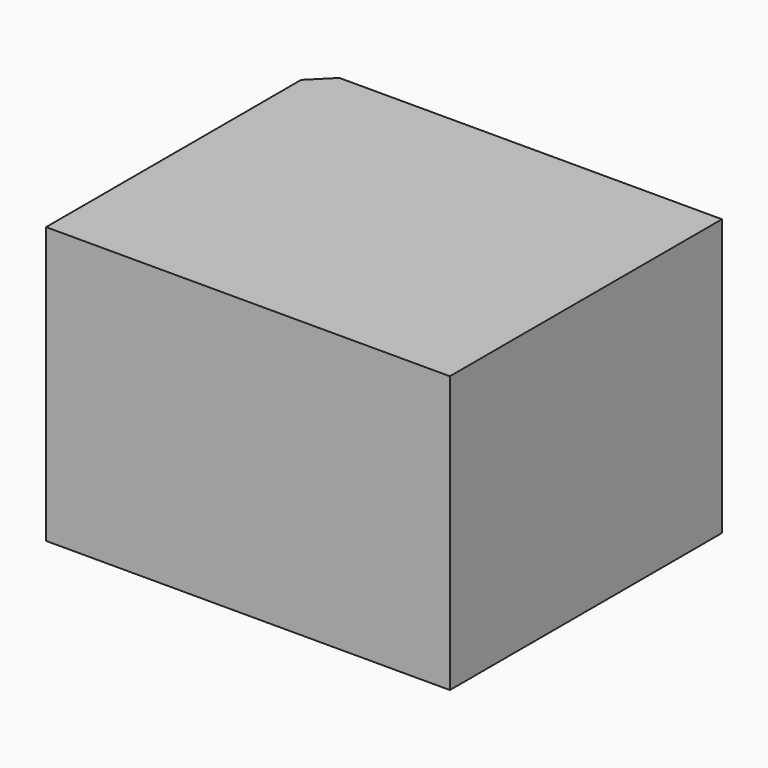
from build123d import *

# Parameters (mm, degrees)
CYLINDER903_R     = 5
CYLINDER903_DEPTH = 3
CYLINDER904_R     = 2.5
CYLINDER904_DEPTH = 20
CYLINDER899_R     = 1.5
CYLINDER899_DEPTH = 20
CYLINDER901_R     = 1.5
CYLINDER901_DEPTH = 20
CYLINDER902_R     = 1.5
CYLINDER902_DEPTH = 20
CYLINDER900_R     = 1.5
CYLINDER900_DEPTH = 20
BOX427_W          = 6
BOX427_H          = 6
BOX427_DEPTH      = 2
BOX429_W          = 6
BOX429_H          = 6
BOX429_DEPTH      = 2
BOX428_W          = 6
BOX428_H          = 6
BOX428_DEPTH      = 2
BOX425_W          = 6
BOX425_H          = 6
BOX425_DEPTH      = 2
BOX426_W          = 20
BOX426_H          = 80
BOX426_DEPTH      = 20
BOX430_W          = 38
BOX430_H          = 32
BOX430_DEPTH      = 26
CHAMFER004_SIZE   = 2


with BuildPart() as obj1:
    # Cylinder903 → Cylinder903 (new body)
    with BuildSketch(Plane(origin=(-112, 16, 66), x_dir=(0, 0, -1), z_dir=(1, 0, 0))):
        Circle(CYLINDER903_R)
    extrude(amount=CYLINDER903_DEPTH)


with BuildPart() as obj2:
    # Cylinder904 → Cylinder904 (new body)
    with BuildSketch(Plane(origin=(-117, 16, 66), x_dir=(0, 0, -1), z_dir=(1, 0, 0))):
        Circle(CYLINDER904_R)
    extrude(amount=CYLINDER904_DEPTH)


with BuildPart() as obj3:
    # Cylinder899 → Cylinder899 (new body)
    with BuildSketch(Plane(origin=(-83, 25, 54), x_dir=(1, 0, 0), z_dir=(0, 0, 1))):
        Circle(CYLINDER899_R)
    extrude(amount=CYLINDER899_DEPTH)


with BuildPart() as obj4:
    # Cylinder901 → Cylinder901 (new body)
    with BuildSketch(Plane(origin=(-109, 7, 54), x_dir=(1, 0, 0), z_dir=(0, 0, 1))):
        Circle(CYLINDER901_R)
    extrude(amount=CYLINDER901_DEPTH)


with BuildPart() as obj5:
    # Cylinder902 → Cylinder902 (new body)
    with BuildSketch(Plane(origin=(-109, 25, 54), x_dir=(1, 0, 0), z_dir=(0, 0, 1))):
        Circle(CYLINDER902_R)
    extrude(amount=CYLINDER902_DEPTH)


with BuildPart() as compound496:
    # Cylinder900 → Cylinder900 (new body)
    with BuildSketch(Plane(origin=(-83, 7, 54), x_dir=(1, 0, 0), z_dir=(0, 0, 1))):
        Circle(CYLINDER900_R)
    extrude(amount=CYLINDER900_DEPTH)

    # Compound496: union obj3, obj4, obj5
    add(obj3.part)
    add(obj4.part)
    add(obj5.part)


with BuildPart() as krychle427:
    # Box427 → Box427 (new body)
    with BuildSketch(Plane(origin=(-112, 22, 60), x_dir=(1, 0, 0), z_dir=(0, 0, 1))):
        with Locations((3, 3)):
            Rectangle(BOX427_W, BOX427_H)
    extrude(amount=BOX427_DEPTH)


with BuildPart() as krychle429:
    # Box429 → Box429 (new body)
    with BuildSketch(Plane(origin=(-86, 4, 60), x_dir=(1, 0, 0), z_dir=(0, 0, 1))):
        with Locations((3, 3)):
            Rectangle(BOX429_W, BOX429_H)
    extrude(amount=BOX429_DEPTH)


with BuildPart() as krychle428:
    # Box428 → Box428 (new body)
    with BuildSketch(Plane(origin=(-86, 22, 60), x_dir=(1, 0, 0), z_dir=(0, 0, 1))):
        with Locations((3, 3)):
            Rectangle(BOX428_W, BOX428_H)
    extrude(amount=BOX428_DEPTH)


with BuildPart() as compound495:
    # Box425 → Box425 (new body)
    with BuildSketch(Plane(origin=(-112, 4, 60), x_dir=(1, 0, 0), z_dir=(0, 0, 1))):
        with Locations((3, 3)):
            Rectangle(BOX425_W, BOX425_H)
    extrude(amount=BOX425_DEPTH)

    # Compound495: union Krychle427, Krychle429, Krychle428
    add(krychle427.part)
    add(krychle429.part)
    add(krychle428.part)


with BuildPart() as krychle426:
    # Box426 → Box426 (new body)
    with BuildSketch(Plane(origin=(-106, 4, 56), x_dir=(1, 0, 0), z_dir=(0, 0, 1))):
        with Locations((10, 40)):
            Rectangle(BOX426_W, BOX426_H)
    extrude(amount=BOX426_DEPTH)


with BuildPart() as chamfer004:
    # Box430 → Box430 (new body)
    with BuildSketch(Plane(origin=(-112, 0, 56), x_dir=(1, 0, 0), z_dir=(0, 0, 1))):
        with Locations((19, 16)):
            Rectangle(BOX430_W, BOX430_H)
    extrude(amount=BOX430_DEPTH)

    # Cut409: cut Krychle426
    add(krychle426.part, mode=Mode.SUBTRACT)

    # Cut410: cut Compound495
    add(compound495.part, mode=Mode.SUBTRACT)

    # Cut403: cut Compound496
    add(compound496.part, mode=Mode.SUBTRACT)

    # Cut404: cut obj2
    add(obj2.part, mode=Mode.SUBTRACT)

    # Cut405: cut obj1
    add(obj1.part, mode=Mode.SUBTRACT)

    # Chamfer004
    chamfer004_edges = [chamfer004.edges().sort_by_distance(p)[0] for p in [
        (-112, 32, 69),
    ]]
    chamfer(chamfer004_edges, length=CHAMFER004_SIZE)


solid = chamfer004.part
